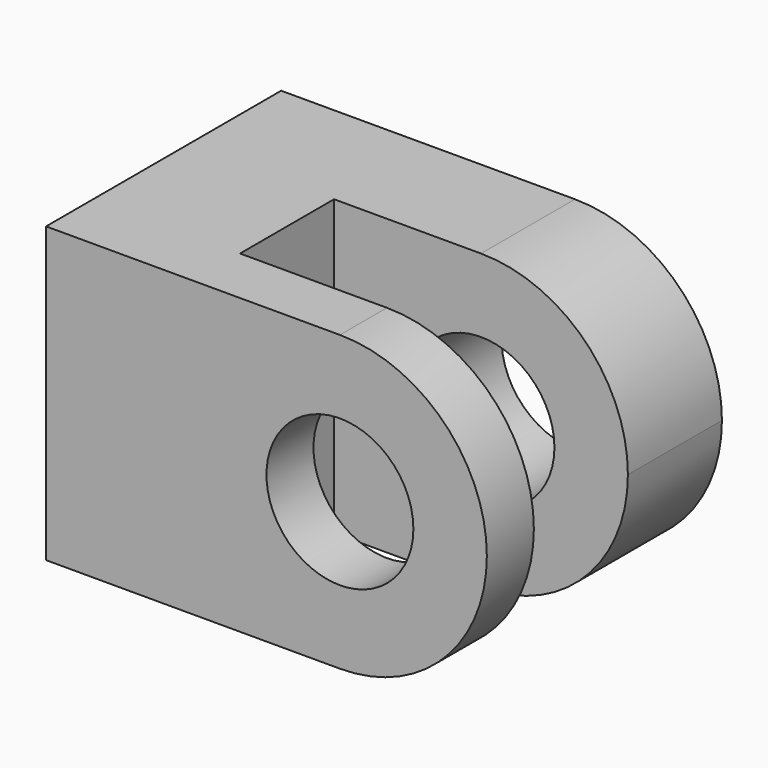
from build123d import *

# Parameters (mm, degrees)
F0_R     = 31.75
F1_DEPTH = 50.8
F3_R     = 31.75
F4_DEPTH = 25.4
F5_W     = 63.5
F5_H     = 127
F6_DEPTH = 50.8
F7_W     = 63.5
F7_H     = 127
F8_DEPTH = 50.8


with BuildPart() as f1:
    # F0 (on Front) → F1 (new body)
    with BuildSketch(Plane.XZ):
        with BuildLine():
            ThreePointArc((0, -63.5), (44.9012806053, -44.9012806053), (63.5, 0))
            ThreePointArc((63.5, 0), (44.9012806053, 44.9012806053), (0, 63.5))
            ThreePointArc((0, 63.5), (-63.5, 0), (0, -63.5))
        make_face()
        Circle(F0_R, mode=Mode.SUBTRACT)
        with BuildLine():
            ThreePointArc((0, -63.5), (-63.5, 0), (0, 63.5))
            Line((0, 63.5), (-127, 63.5))
            Line((-127, 63.5), (-127, -63.5))
            Line((-127, -63.5), (0, -63.5))
        make_face()
    extrude(amount=F1_DEPTH)



with BuildPart() as f4:
    # F3 (on offset) → F4 (new body)
    with BuildSketch(Plane.XZ.offset(101.6)):
        with BuildLine():
            Line((-127, 63.5), (-127, -63.5))
            Line((-127, -63.5), (0, -63.5))
            ThreePointArc((0, -63.5), (63.5, 0), (0, 63.5))
            Line((0, 63.5), (-127, 63.5))
        make_face()
        Circle(F3_R, mode=Mode.SUBTRACT)
    extrude(amount=F4_DEPTH)


with BuildPart() as f6:
    # F5 (on face) → F6 (new body, through all)
    with BuildSketch(Plane.XZ.offset(50.8)):
        with Locations((-95.25, 0)):
            Rectangle(F5_W, F5_H)
    extrude(amount=F6_DEPTH)


with BuildPart() as f1_1:
    add(f1.part)

    add(f4.part)  # F8 merges F4

    add(f6.part)  # F8 merges F6
    # F7 (on face) → F8 (join, through all)
    with BuildSketch(Plane.XZ.offset(50.8)):
        with Locations((-95.25, 0)):
            Rectangle(F7_W, F7_H)
    extrude(amount=F8_DEPTH)


solid = f1_1.part
